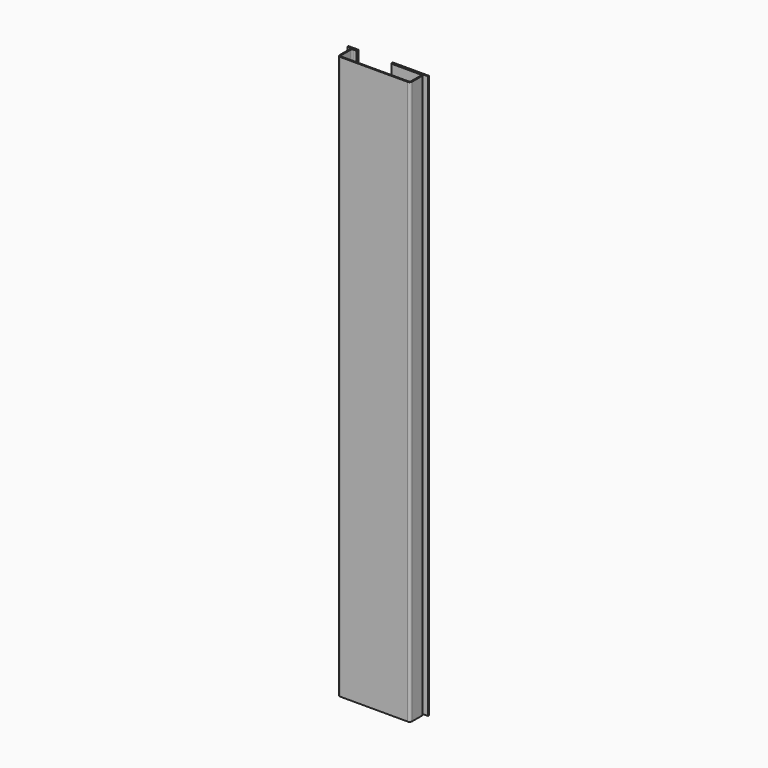
from build123d import *

# Parameters (mm, degrees)
F1_DEPTH = 350
F2_R     = 1


with BuildPart() as f1:
    # F0 (on Top) → F1 (new body, symmetric)
    with BuildSketch(Plane.XY):
        with BuildLine():
            ThreePointArc((0, 3), (0.87868, 0.87868), (3, 0))
            Line((3, 0), (87, 0))
            ThreePointArc((87, 0), (89.12132, 0.87868), (90, 3))
            Line((90, 3), (90, 18.5))
            ThreePointArc((90, 18.5), (89.12132, 20.62132), (87, 21.5))
            Line((87, 21.5), (50, 21.5))
            Line((50, 21.5), (50, 20))
            Line((50, 20), (87, 20))
            ThreePointArc((87, 20), (88.06066, 19.56066), (88.5, 18.5))
            Line((88.5, 18.5), (88.5, 3))
            ThreePointArc((88.5, 3), (88.06066, 1.93934), (87, 1.5))
            Line((87, 1.5), (3, 1.5))
            ThreePointArc((3, 1.5), (1.93934, 1.93934), (1.5, 3))
            Line((1.5, 3), (1.5, 18.5))
            ThreePointArc((1.5, 18.5), (1.93934, 19.56066), (3, 20))
            Line((3, 20), (8, 20))
            Line((8, 20), (8, 21.5))
            Line((8, 21.5), (3, 21.5))
            ThreePointArc((3, 21.5), (0.87868, 20.62132), (0, 18.5))
            Line((0, 18.5), (0, 3))
        make_face()
        Polygon((1.5, 21.5), (3, 21.5), (8, 21.5), (8, 23), (-5, 23), (-5, 21.5), (0, 21.5), align=None)
        Polygon((50, 21.5), (87, 21.5), (88.5, 21.5), (90, 21.5), (95, 21.5), (95, 23), (50, 23), align=None)
    extrude(amount=F1_DEPTH, both=True)

    # F2
    f2_edges = [f1.edges().sort_by_distance(p)[0] for p in [
        (50, 23, 0),
        (50, 20, 0),
        (8, 23, 0),
        (8, 20, 0),
    ]]
    fillet(f2_edges, radius=F2_R)


solid = f1.part
